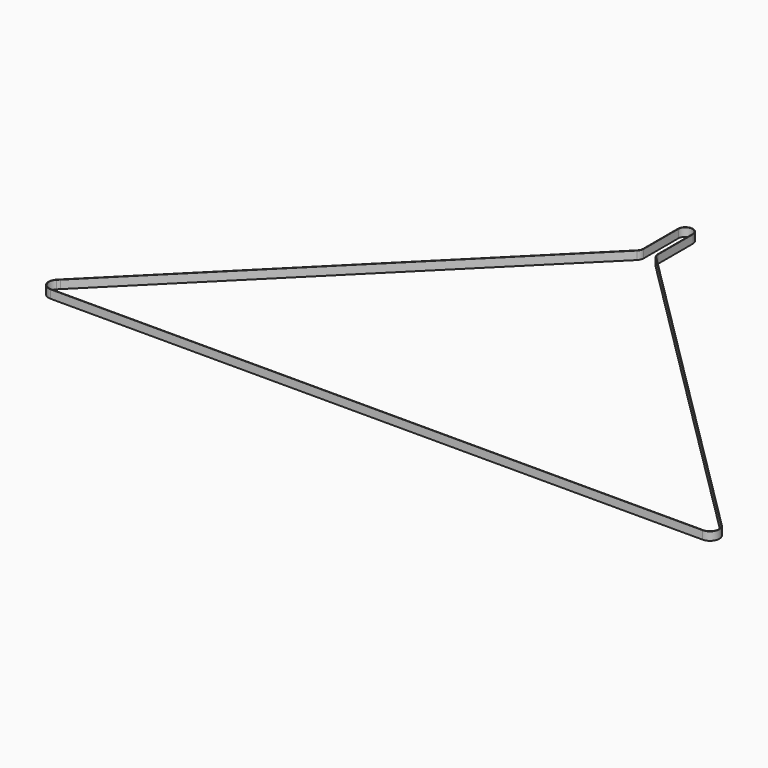
from build123d import *

# Parameters (mm, degrees)
F1_DEPTH = 6


with BuildPart() as f1:
    # F0 (on Top) → F1 (new body)
    with BuildSketch(Plane.XY):
        with BuildLine():
            ThreePointArc((-235, -6.365), (-240.8828421892, -2.4301013922), (-239.4920355049, 4.5094170381))
            Line((-239.4920355049, 4.5094170381), (-240.9281839677, 3.0788041258))
            ThreePointArc((-240.9281839677, 3.0788041258), (-240.709151056, -3.468139879), (-235, -6.68))
            Line((-235, -6.68), (235, -6.68))
            ThreePointArc((235, -6.68), (241.1739804556, -2.5503657254), (239.7143437555, 4.7325852295))
            Line((239.7143437555, 4.7325852295), (6.9092542763, 236.6403410562))
            ThreePointArc((6.9092542763, 236.6403410562), (5.7997184217, 238.2956841942), (5.41, 240.25))
            Line((5.41, 240.25), (5.41, 271.5))
            ThreePointArc((5.41, 271.5), (5.3306683446, 272.4230790865), (5.095, 273.3190863091))
            ThreePointArc((5.095, 273.3190863091), (5.0660584486, 273.3981969854), (5.0358886206, 273.4768474399))
            ThreePointArc((5.0358886206, 273.4768474399), (0, 276.91), (-5.0358886206, 273.4768474399))
            ThreePointArc((-5.0358886206, 273.4768474399), (-5.0660584486, 273.3981969854), (-5.095, 273.3190863091))
            ThreePointArc((-5.095, 273.3190863091), (-5.3306683446, 272.4230790865), (-5.41, 271.5))
            Line((-5.41, 271.5), (-5.41, 240.25))
            ThreePointArc((-5.41, 240.25), (-5.7997184217, 238.2956841942), (-6.9092542763, 236.6403410562))
            Line((-6.9092542763, 236.6403410562), (-239.7143437555, 4.7325852295))
            ThreePointArc((-239.7143437555, 4.7325852295), (-238.931743019, 5.4003515471), (-238.0558872909, 5.9400297024))
            Line((-238.0558872909, 5.9400297024), (-6.6869461501, 236.4171727408))
            ThreePointArc((-6.6869461501, 236.4171727408), (-5.5088128874, 238.1748579962), (-5.095, 240.25))
            Line((-5.095, 240.25), (-5.095, 271.5))
            ThreePointArc((-5.095, 271.5), (0, 276.595), (5.095, 271.5))
            Line((5.095, 271.5), (5.095, 240.25))
            ThreePointArc((5.095, 240.25), (5.5088128874, 238.1748579962), (6.6869461501, 236.4171727408))
            Line((6.6869461501, 236.4171727408), (239.4920356293, 4.5094169141))
            ThreePointArc((239.4920356293, 4.5094169141), (240.8828421557, -2.4301014734), (235, -6.365))
            Line((235, -6.365), (-235, -6.365))
        make_face()
        with BuildLine():
            Line((-240.9281839677, 3.0788041258), (-239.4920355049, 4.5094170381))
            Line((-239.4920355049, 4.5094170381), (-238.0558872909, 5.9400297024))
            ThreePointArc((-238.0558872909, 5.9400297024), (-238.931743019, 5.4003515471), (-239.7143437555, 4.7325852295))
            ThreePointArc((-239.7143437555, 4.7325852295), (-240.3851273959, 3.9525691556), (-240.9281839677, 3.0788041258))
        make_face()
        with BuildLine():
            Line((-5.095, 273.4090410699), (-5.095, 273.3190863091))
            ThreePointArc((-5.095, 273.3190863091), (-5.0660584486, 273.3981969854), (-5.0358886206, 273.4768474399))
            Line((-5.0358886206, 273.4768474399), (-5.095, 273.4090410699))
        make_face()
        with BuildLine():
            Line((5.095, 273.4090410699), (5.0358886206, 273.4768474399))
            ThreePointArc((5.0358886206, 273.4768474399), (5.0660584486, 273.3981969854), (5.095, 273.3190863091))
            Line((5.095, 273.3190863091), (5.095, 273.4090410699))
        make_face()
    extrude(amount=F1_DEPTH)


solid = f1.part
